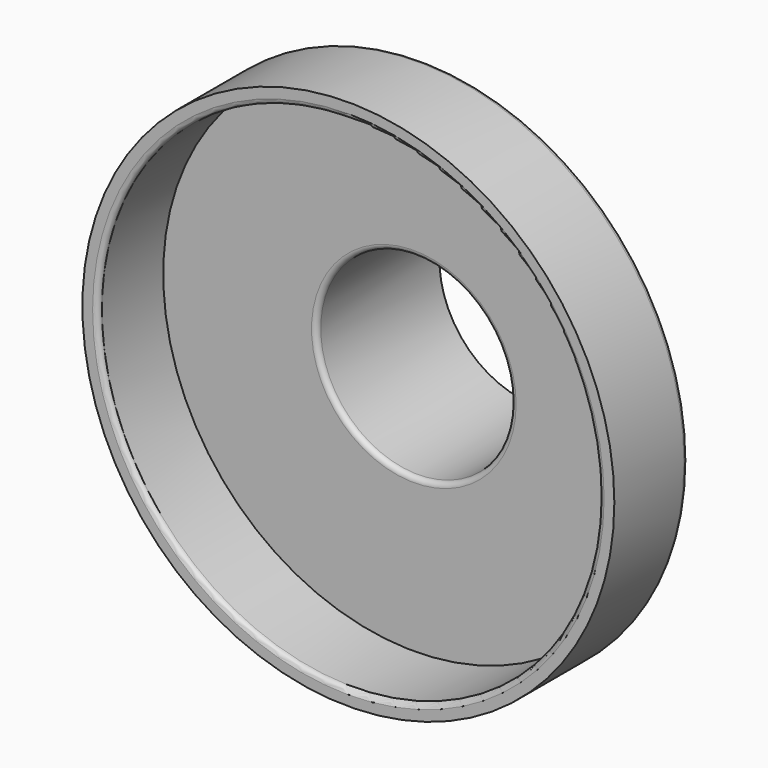
from build123d import *

# Parameters (mm, degrees)
F0_R     = 26
F0_R_2   = 24.5
F1_DEPTH = 8
F2_R     = 26
F2_R_2   = 9.5
F3_DEPTH = 1
F4_R     = 10.5
F4_R_2   = 9.5
F5_DEPTH = 15
F6_R     = 0.5


with BuildPart() as f1:
    # F0 (on Front) → F1 (new body)
    with BuildSketch(Plane.XZ):
        Circle(F0_R)
        Circle(F0_R_2, mode=Mode.SUBTRACT)
    extrude(amount=F1_DEPTH)

    # F2 (on Front) → F3 (join)
    with BuildSketch(Plane.XZ):
        Circle(F2_R)
        Circle(F2_R_2, mode=Mode.SUBTRACT)
    extrude(amount=-F3_DEPTH)

    # F4 (on Front) → F5 (join)
    with BuildSketch(Plane.XZ):
        Circle(F4_R)
        Circle(F4_R_2, mode=Mode.SUBTRACT)
    extrude(amount=-F5_DEPTH)

    # F6
    f6_edges = [f1.edges().sort_by_distance(p)[0] for p in [
        (-26, 1, 0),
        (-10.5, 1, 0),
        (-10.5, 15, 0),
        (-24.5, -8, 0),
        (-9.5, 0, 0),
    ]]
    fillet(f6_edges, radius=F6_R)


solid = f1.part
